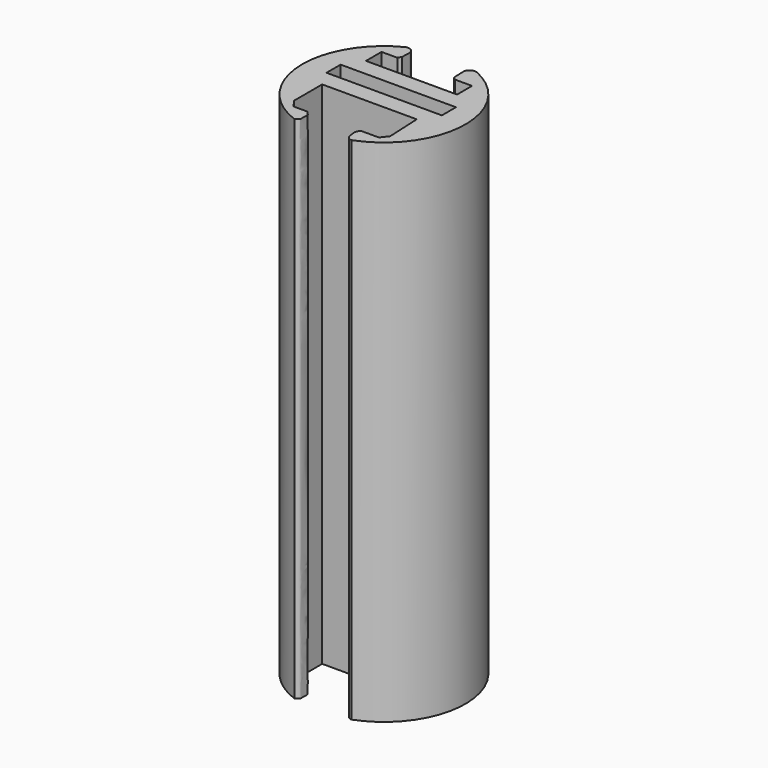
from build123d import *

# Parameters (mm, degrees)
F0_W     = 11.3057298586
F0_H     = 1.7304912908
F1_DEPTH = 50


with BuildPart() as f1:
    # F0 (on Top) → F1 (new body)
    with BuildSketch(Plane.XY):
        with BuildLine():
            Line((4.4054230675, 3.4606601112), (-4.5231990516, 3.4606601112))
            Line((-4.5231990516, 3.4606601112), (-4.5231990516, 5.3690937348))
            Line((-4.5231990516, 5.3690937348), (-2.9782974161, 5.3690937348))
            Line((-2.9782974161, 5.3690937348), (-2.773825312, 5.7091941126))
            Line((-2.773825312, 5.7091941126), (-2.7527596352, 6.6507232887))
            ThreePointArc((-2.7527596352, 6.6507232887), (-3.0664478169, 7.0996848912), (-3.613585839, 7.1243178099))
            ThreePointArc((-3.613585839, 7.1243178099), (-7.9752075581, -0.4582262307), (-2.7738250792, -7.4913150583))
            add(Edge.make_bspline(
                [(-2.7738250792, -5.9002870694), (-2.6144072511, -6.0607281539), (-2.346883171, -6.3298998291), (-2.427999813, -6.6217891827), (-2.4054315805, -7.0125419427), (-2.415212075, -7.2688239973), (-2.6448027873, -7.4055769142), (-2.7738250792, -7.4913150583)],
                knots=[0, 0, 0, 0, 0.252271027, 0.4249202994, 0.630429378, 0.7895901164, 1, 1, 1, 1], degree=3))
            Line((-2.7738250792, -5.9002870694), (-4.1432916353, -5.9002870694))
            Line((-4.1432916353, -5.9002870694), (-4.70495224, -5.1043359563))
            Line((-4.70495224, -5.1043359563), (-4.70495224, -1.6737970291))
            Line((-4.70495224, -1.6737970291), (4.564457573, -1.6737970291))
            Line((4.564457573, -1.6737970291), (4.7234920785, -5.1306686364))
            Line((4.7234920785, -5.1306686364), (4.1782325134, -5.8347564191))
            Line((4.1782325134, -5.8347564191), (2.5197349023, -5.8347564191))
            add(Edge.make_bspline(
                [(2.5197349023, -5.8347564191), (2.3980995419, -5.9157782732), (2.1343158467, -6.0915191462), (2.228320517, -6.7063916131), (2.2794794655, -7.1244067945), (2.4963405222, -7.4371446324), (2.7025704329, -7.4761265855), (2.8019027698, -7.4932863864)],
                knots=[0, 0, 0, 0, 0.2023326776, 0.4384228548, 0.6464930045, 0.8293770776, 1, 1, 1, 1], degree=3))
            ThreePointArc((2.8019027698, -7.4932863864), (7.9957417071, -0.2609876489), (3.2845922531, 7.2946181347))
            ThreePointArc((3.2845922531, 7.2946181347), (2.674382878, 7.2275866965), (2.4048691095, 6.6760334137))
            Line((2.4048691095, 6.6760334137), (2.4515774567, 5.5226925761))
            Line((2.4515774567, 5.5226925761), (2.7242072392, 5.297597032))
            Line((2.7242072392, 5.297597032), (4.4054230675, 5.297597032))
            Line((4.4054230675, 5.297597032), (4.4054230675, 3.4606601112))
        make_face()
        with Locations((0, 0.9022504673)):
            Rectangle(F0_W, F0_H, mode=Mode.SUBTRACT)
    extrude(amount=F1_DEPTH)


solid = f1.part
